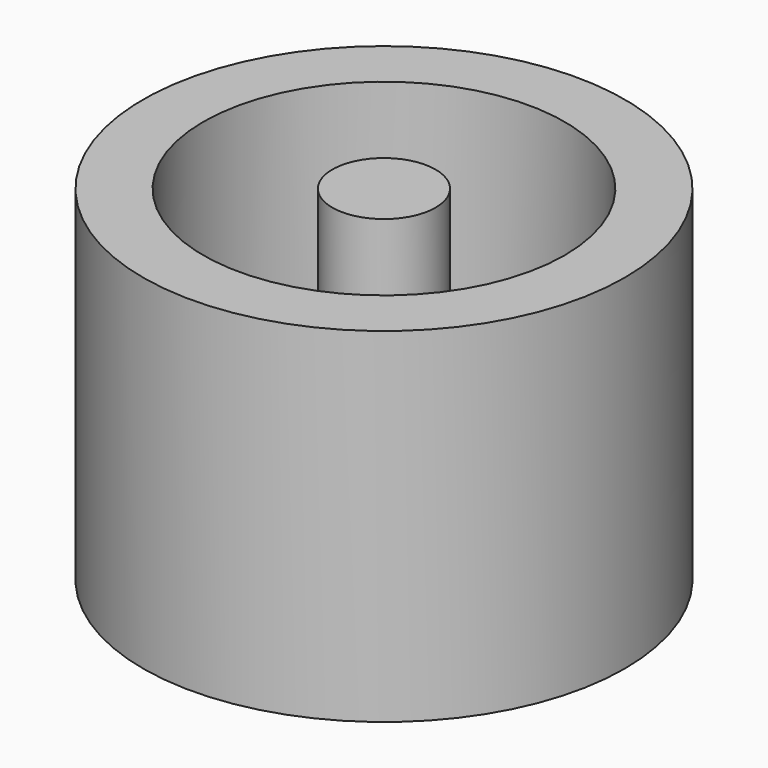
from build123d import *

# Parameters (mm, degrees)
F0_R     = 3.5
F1_DEPTH = 5
F3_START = 2
F2_R     = 2.625
F2_R_2   = 0.75
F3_DEPTH = 3


with BuildPart() as f1:
    # F0 (on Top) → F1 (new body)
    with BuildSketch(Plane.XY):
        Circle(F0_R)
    extrude(amount=F1_DEPTH)

    # F2 (on Top) → F3 (cut)
    with BuildSketch(Plane.XY.offset(F3_START)):
        Circle(F2_R)
        Circle(F2_R_2, mode=Mode.SUBTRACT)
    extrude(amount=F3_DEPTH, mode=Mode.SUBTRACT)


solid = f1.part
